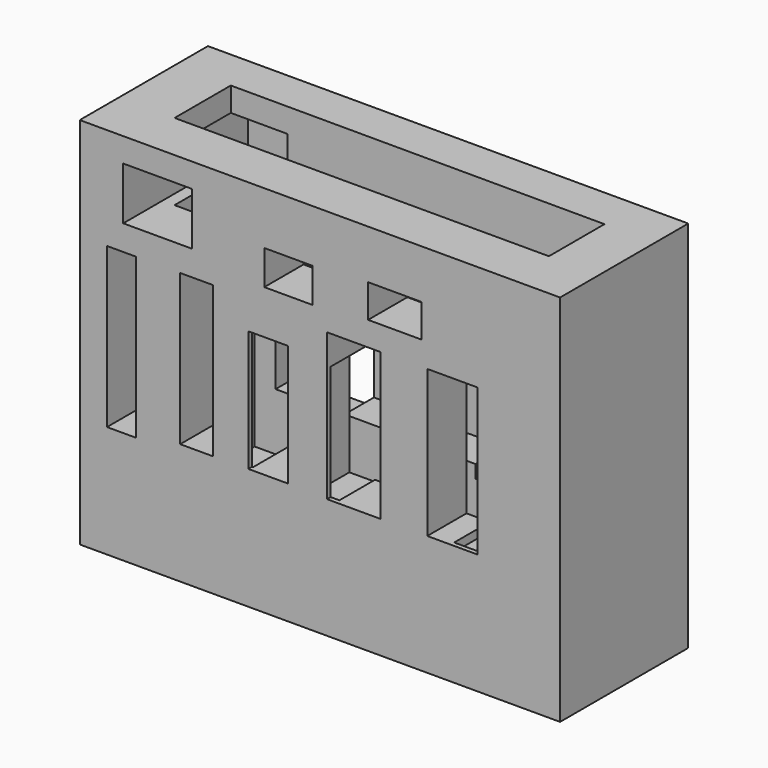
from build123d import *

# Parameters (mm, degrees)
F1_DEPTH = 60
F3_DEPTH = 10
F5_DEPTH = 25
F6_W     = 4.12122
F6_H     = 18.726911
F6_W_2   = 5.461499
F6_H_2   = 21.064218
F6_W_3   = 4.923844
F6_H_3   = 15.403733
F7_DEPTH = 25
F8_W     = 5.271911
F8_H     = 24.206938
F8_W_2   = 6.385386
F8_H_2   = 19.464375
F8_W_3   = 8.589027
F8_H_3   = 23.594679
F8_W_4   = 8.036524
F8_H_4   = 23.621964
F8_W_5   = 4.6295
F8_H_5   = 25.599981
F8_W_6   = 7.762552
F8_H_6   = 5.533628
F8_W_7   = 8.549511
F8_H_7   = 5.327355
F8_W_8   = 11.053609
F8_H_8   = 8.455139
F9_DEPTH = 25


with BuildPart() as f1:
    # F0 (on Top) → F1 (new body)
    with BuildSketch(Plane.XY):
        Polygon((-48.300002, -6.563763), (-48.300002, -17.85), (-48.300002, -25.725), (28.833047, -25.725), (28.833047, 0), (-48.300002, 0), align=None)
        Polygon((20.737499, -17.85), (-39.375003, -17.85), (-39.375003, -6.563763), (20.737499, -6.698824), align=None, mode=Mode.SUBTRACT)
    extrude(amount=F1_DEPTH)

    # F2 (on face) → F3 (join)
    with BuildSketch(Plane.XY):
        Polygon((-39.375003, -17.85), (20.737499, -17.85), (20.737499, -6.698824), (-39.375003, -6.563763), align=None)
    extrude(amount=F3_DEPTH)

    # F4 (on face) → F5 (cut)
    with BuildSketch(Plane(origin=(0, 0, 0), x_dir=(-1, 0, 0), z_dir=(0, 1, 0))):
        Polygon((-11.244134, 35.740558), (-16.007215, 36.322691), (-16.007215, 18.008349), (-11.244134, 18.008349), align=None)
    extrude(amount=-F5_DEPTH, mode=Mode.SUBTRACT)

    # F6 (on face) → F7 (cut)
    with BuildSketch(Plane(origin=(0, 0, 0), x_dir=(-1, 0, 0), z_dir=(0, 1, 0))):
        with Locations((9.246856, 28.394447)):
            Rectangle(F6_W, F6_H)
        with Locations((23.790132, 28.261853)):
            Rectangle(F6_W_2, F6_H_2)
        with Locations((-2.461922, 24.927176)):
            Rectangle(F6_W_3, F6_H_3)
    extrude(amount=-F7_DEPTH, mode=Mode.SUBTRACT)

    # F8 (on face) → F9 (cut)
    with BuildSketch(Plane.XZ.offset(25.725)):
        with Locations((-29.537439, 31.525831)):
            Rectangle(F8_W, F8_H)
        with Locations((-18.033631, 29.21811)):
            Rectangle(F8_W_2, F8_H_2)
        with Locations((-4.294513, 31.116555)):
            Rectangle(F8_W_3, F8_H_3)
        with Locations((11.522623, 31.159862)):
            Rectangle(F8_W_4, F8_H_4)
        with Locations((-41.608218, 30.823439)):
            Rectangle(F8_W_5, F8_H_5)
        with Locations((-14.784377, 48.786048)):
            Rectangle(F8_W_6, F8_H_6)
        with Locations((2.278485, 49.474218)):
            Rectangle(F8_W_7, F8_H_7)
        with Locations((-35.790155, 51.899684)):
            Rectangle(F8_W_8, F8_H_8)
    extrude(amount=-F9_DEPTH, mode=Mode.SUBTRACT)


solid = f1.part
